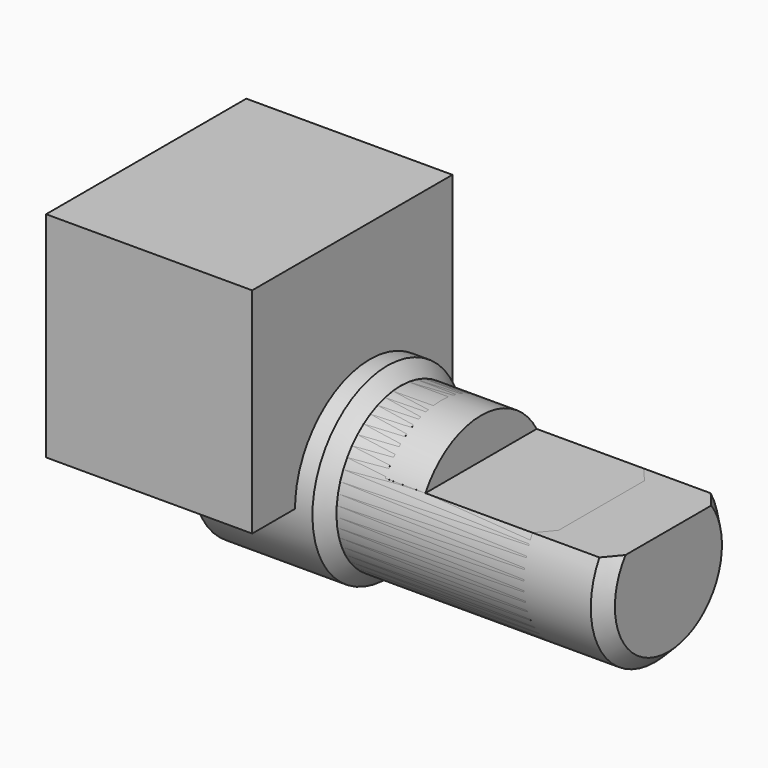
from build123d import *

# Parameters (mm, degrees)
SKETCH001_W     = 7.7
SKETCH001_H     = 9.35
PAD_DEPTH       = 1
SKETCH002_W     = 7.7
SKETCH002_H     = 9.35
PAD001_DEPTH    = 5
SKETCH003_W     = 7.7
SKETCH003_H     = 9.35
PAD002_DEPTH    = 2
SKETCH007_W     = 7
SKETCH007_H     = 1.5
POCKET_DEPTH    = 3
CHAMFER_SIZE    = 0.5
CHAMFER001_SIZE = 0.499
SKETCH009_W     = 6
SKETCH009_H     = 1.5
POCKET001_DEPTH = 3
CHAMFER002_SIZE = 0.5
CHAMFER003_SIZE = 0.499
PAD003_DEPTH    = 0.3


with BuildPart() as rd701f_body:
    # Sketch001 → Pad (new body)
    with BuildSketch(Plane.XY):
        with Locations((0, -0.825)):
            Rectangle(SKETCH001_W, SKETCH001_H)
    extrude(amount=PAD_DEPTH)

    # Sketch002 (on ShapeBinder) → Pad001 (join)
    with BuildSketch(Plane.XY.offset(1)):
        with Locations((0, -0.825)):
            Rectangle(SKETCH002_W, SKETCH002_H)
    extrude(amount=PAD001_DEPTH)

    # Sketch003 (on ShapeBinder) → Pad002 (join)
    with BuildSketch(Plane.XY.offset(6)):
        with Locations((0, -0.825)):
            Rectangle(SKETCH003_W, SKETCH003_H)
    extrude(amount=PAD002_DEPTH)


with BuildPart() as rd701f_shaft_type_15f:
    # Sketch005 → Revolution (revolve)
    with BuildSketch(Plane.XZ):
        Polygon((0, 0), (0, 3.5), (5, 3.5), (5, 3), (15, 3), (15, 0), align=None)
    revolve(axis=Axis((0, 0, 0), (1, 0, 0)))

    # Sketch007 → Pocket (cut, symmetric)
    with BuildSketch(Plane.XZ):
        with Locations((11.5, 2.25)):
            Rectangle(SKETCH007_W, SKETCH007_H)
    extrude(amount=POCKET_DEPTH, both=True, mode=Mode.SUBTRACT)

    # Chamfer
    chamfer_edges = [rd701f_shaft_type_15f.edges().sort_by_distance(p)[0] for p in [
        (15, 0, -3),
    ]]
    chamfer(chamfer_edges, length=CHAMFER_SIZE)

    # Chamfer001
    chamfer001_edges = [rd701f_shaft_type_15f.edges().sort_by_distance(p)[0] for p in [
        (5, 0, -3.5),
    ]]
    chamfer(chamfer001_edges, length=CHAMFER001_SIZE)


with BuildPart() as rd701f_shaft_type_12_5f:
    # Sketch008 → Revolution001 (revolve)
    with BuildSketch(Plane.XZ):
        Polygon((0, 0), (0, 3.5), (5, 3.5), (5, 3), (12.5, 3), (12.5, 0), align=None)
    revolve(axis=Axis((0, 0, 0), (1, 0, 0)))

    # Sketch009 → Pocket001 (cut, symmetric)
    with BuildSketch(Plane.XZ):
        with Locations((9.5, 2.25)):
            Rectangle(SKETCH009_W, SKETCH009_H)
    extrude(amount=POCKET001_DEPTH, both=True, mode=Mode.SUBTRACT)

    # Chamfer002
    chamfer002_edges = [rd701f_shaft_type_12_5f.edges().sort_by_distance(p)[0] for p in [
        (12.5, 0, -3),
    ]]
    chamfer(chamfer002_edges, length=CHAMFER002_SIZE)

    # Chamfer003
    chamfer003_edges = [rd701f_shaft_type_12_5f.edges().sort_by_distance(p)[0] for p in [
        (5, 0, -3.5),
    ]]
    chamfer(chamfer003_edges, length=CHAMFER003_SIZE)


with BuildPart() as rd701f_terminal_type_20b1:
    # Sketch011 → Pad003 (new body)
    with BuildSketch(Plane.XY):
        with BuildLine():
            ThreePointArc((-0.3, -2.7), (0, -3), (0.3, -2.7))
            Line((0.3, 0), (0.3, -2.7))
            Line((0.3, 0), (-0.3, 0))
            Line((-0.3, -2.7), (-0.3, 0))
        make_face()
    extrude(amount=PAD003_DEPTH)


solid = Compound([rd701f_body.part, rd701f_shaft_type_15f.part, rd701f_shaft_type_12_5f.part, rd701f_terminal_type_20b1.part])
